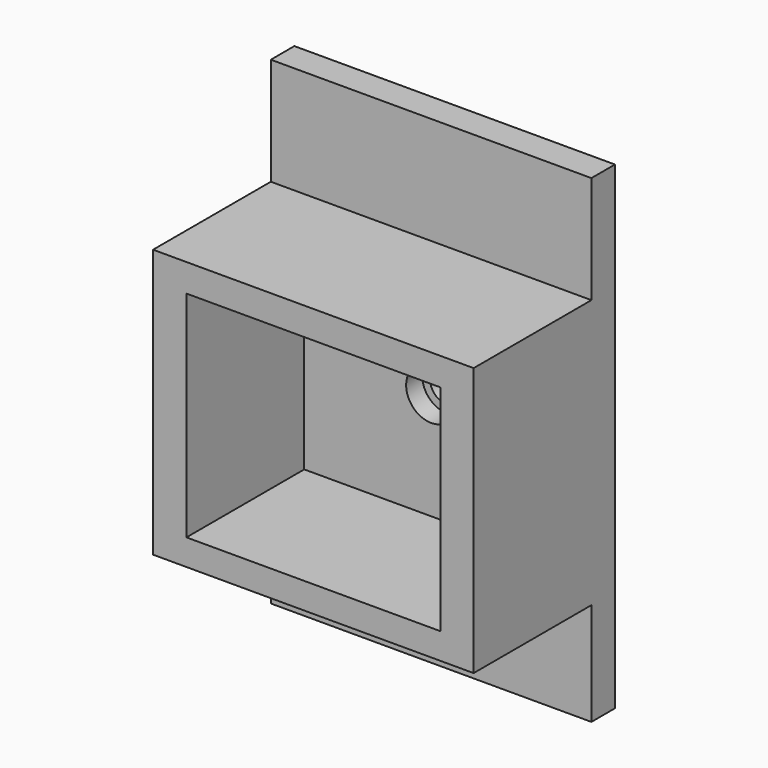
from build123d import *

# Parameters (mm, degrees)
F0_W     = 32.665957
F0_H     = 48.783079
F1_DEPTH = 3
F2_W     = 32.665957
F2_H     = 27.359366
F3_DEPTH = 15
F4_R     = 2.562135
F5_DEPTH = 25
F6_R     = 2.514789
F6_R_2   = 1.732431
F7_DEPTH = 1


with BuildPart() as f1:
    # F0 (on Front) → F1 (new body)
    with BuildSketch(Plane.XZ):
        with Locations((16.332978, 24.39154)):
            Rectangle(F0_W, F0_H)
    extrude(amount=F1_DEPTH)

    # F2 (on face) → F3 (join)
    with BuildSketch(Plane.XZ.offset(3)):
        with Locations((16.332978, 24.155848)):
            Rectangle(F2_W, F2_H)
        Polygon((3.404888, 35.008952), (16.332978, 35.008952), (29.296422, 35.008952), (29.296422, 13.136239), (3.404888, 13.136239), align=None, mode=Mode.SUBTRACT)
    extrude(amount=F3_DEPTH)

    # F4 (on face) → F5 (cut)
    with BuildSketch(Plane.XZ.offset(3)):
        with Locations((16.350655, 24.072595)):
            Circle(F4_R)
    extrude(amount=-F5_DEPTH, mode=Mode.SUBTRACT)


with BuildPart() as f7:
    # F6 (on face) → F7 (new body)
    with BuildSketch(Plane(origin=(0, 0, 0), x_dir=(-1, 0, 0), z_dir=(0, 1, 0))):
        with Locations((-16.350655, 24.072595)):
            Circle(F6_R)
        with Locations((-16.350655, 24.072595)):
            Circle(F6_R_2, mode=Mode.SUBTRACT)
    extrude(amount=-F7_DEPTH)


solid = Compound([f1.part, f7.part])
